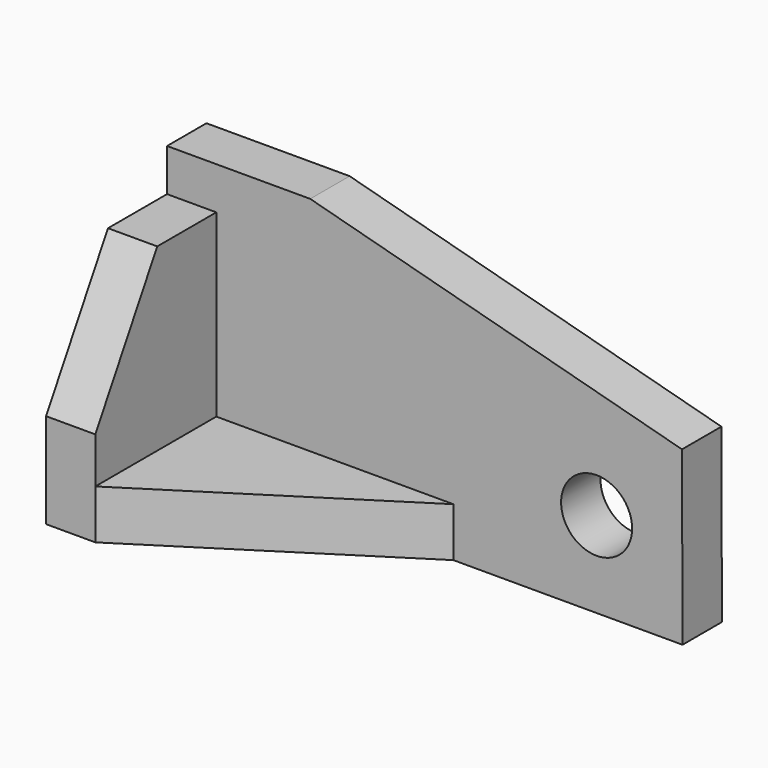
from build123d import *

# Parameters (mm, degrees)
F2_DEPTH = 10.922
F3_DEPTH = 10.922
F4_R     = 7.874
F5_DEPTH = 10.922


with BuildPart() as f2:
    # F1 (on Right) → F2 (new body)
    with BuildSketch(Plane.YZ):
        Polygon((-44.45, 0), (-10.922, 0), (-10.922, 50.8), (-27.292305, 50.8), (-44.45, 21.082), align=None)
    extrude(amount=F2_DEPTH)

    # F0 (on Top) → F3 (join)
    with BuildSketch(Plane.XY):
        Polygon((63.5, -10.922), (10.922, -10.922), (10.922, -44.45), align=None)
    extrude(amount=F3_DEPTH)

    # F4 (on Front) → F5 (join)
    with BuildSketch(Plane.XZ):
        Polygon((0, 60.198), (0, 0), (95.25, 0), (114.3, 0), (114.185974, 38.109347), (31.75, 60.198), align=None)
        with Locations((95.25, 19.05)):
            Circle(F4_R, mode=Mode.SUBTRACT)
    extrude(amount=F5_DEPTH)


solid = f2.part
